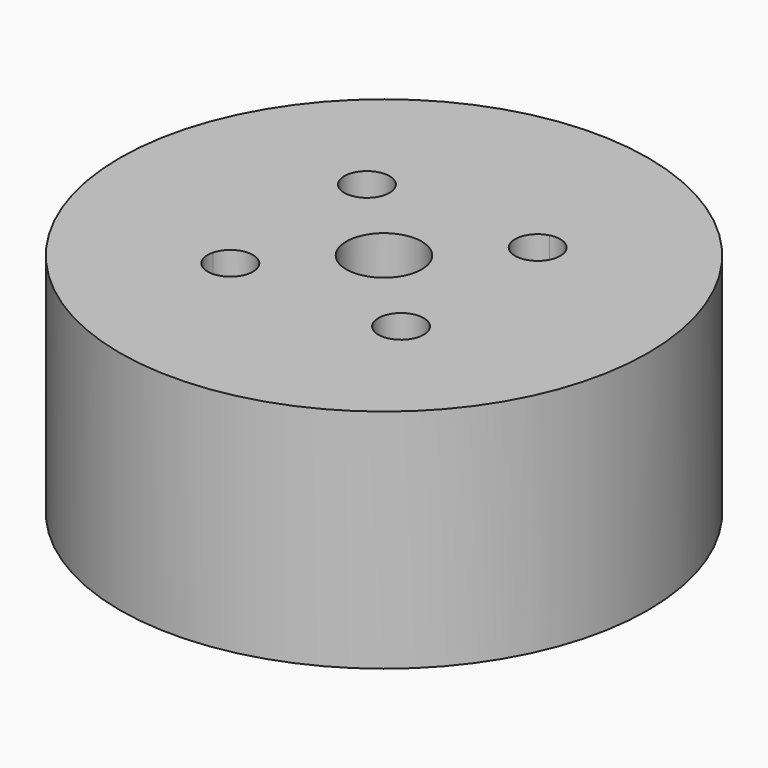
from build123d import *

# Parameters (mm, degrees)
F0_R          = 17.5
F0_R_2        = 1.5
F0_R_3        = 2.5
F1_DEPTH      = 15
F2_START      = 10
F2_DEPTH      = 15
F3_DEPTH      = 5
F3_DEPTH_BACK = 2


with BuildPart() as f1:
    # F0 (on Top) → F1 (new body)
    with BuildSketch(Plane.XY):
        Circle(F0_R)
        with BuildLine():
            ThreePointArc((-7.1057429889, -5.2686256818), (-5.4610649612, -4.1696869574), (-4.1568542495, -5.6568542495))
            ThreePointArc((-4.1568542495, -5.6568542495), (-4.4668242391, -6.569996393), (-5.2686256818, -7.1057429889))
            ThreePointArc((-5.2686256818, -7.1057429889), (-7.7781745931, -7.7781745931), (-7.1057429889, -5.2686256818))
        make_face(mode=Mode.SUBTRACT)
        with Locations((5.6568542495, -5.6568542495)):
            Circle(F0_R_2, mode=Mode.SUBTRACT)
        with Locations((-5.6568542495, 5.6568542495)):
            Circle(F0_R_2, mode=Mode.SUBTRACT)
        Circle(F0_R_3, mode=Mode.SUBTRACT)
        with BuildLine():
            ThreePointArc((7.1057429889, 5.2686256818), (4.5961940777, 4.5961940777), (5.2686256818, 7.1057429889))
            ThreePointArc((5.2686256818, 7.1057429889), (6.9133037096, 8.2046817133), (8.2175144213, 6.7175144213))
            ThreePointArc((8.2175144213, 6.7175144213), (7.9075444317, 5.8043722778), (7.1057429889, 5.2686256818))
        make_face(mode=Mode.SUBTRACT)
        with Locations((-5.6568542495, 5.6568542495)):
            Circle(F0_R_2)
        with BuildLine():
            ThreePointArc((-5.2686256818, -7.1057429889), (-6.7175144213, -6.7175144213), (-7.1057429889, -5.2686256818))
            ThreePointArc((-7.1057429889, -5.2686256818), (-7.7781745931, -7.7781745931), (-5.2686256818, -7.1057429889))
        make_face()
        with BuildLine():
            ThreePointArc((-5.2175144213, -6.7175144213), (-5.8043722778, -5.5274844108), (-7.1057429889, -5.2686256818))
            ThreePointArc((-7.1057429889, -5.2686256818), (-6.7175144213, -6.7175144213), (-5.2686256818, -7.1057429889))
            ThreePointArc((-5.2686256818, -7.1057429889), (-5.2303471292, -6.9133037096), (-5.2175144213, -6.7175144213))
        make_face()
        with BuildLine():
            ThreePointArc((-5.2686256818, -7.1057429889), (-4.4668242391, -6.569996393), (-4.1568542495, -5.6568542495))
            ThreePointArc((-4.1568542495, -5.6568542495), (-5.4610649612, -4.1696869574), (-7.1057429889, -5.2686256818))
            ThreePointArc((-7.1057429889, -5.2686256818), (-5.8043722778, -5.5274844108), (-5.2175144213, -6.7175144213))
            ThreePointArc((-5.2175144213, -6.7175144213), (-5.2303471292, -6.9133037096), (-5.2686256818, -7.1057429889))
        make_face()
        with Locations((5.6568542495, -5.6568542495)):
            Circle(F0_R_2)
        with BuildLine():
            ThreePointArc((7.1057429889, 5.2686256818), (5.6568542495, 5.6568542495), (5.2686256818, 7.1057429889))
            ThreePointArc((5.2686256818, 7.1057429889), (4.5961940777, 4.5961940777), (7.1057429889, 5.2686256818))
        make_face()
        with BuildLine():
            ThreePointArc((7.1057429889, 5.2686256818), (7.1440215416, 5.4610649612), (7.1568542495, 5.6568542495))
            ThreePointArc((7.1568542495, 5.6568542495), (6.569996393, 6.8468842599), (5.2686256818, 7.1057429889))
            ThreePointArc((5.2686256818, 7.1057429889), (5.6568542495, 5.6568542495), (7.1057429889, 5.2686256818))
        make_face()
        with BuildLine():
            ThreePointArc((5.2686256818, 7.1057429889), (6.569996393, 6.8468842599), (7.1568542495, 5.6568542495))
            ThreePointArc((7.1568542495, 5.6568542495), (7.1440215416, 5.4610649612), (7.1057429889, 5.2686256818))
            ThreePointArc((7.1057429889, 5.2686256818), (7.9075444317, 5.8043722778), (8.2175144213, 6.7175144213))
            ThreePointArc((8.2175144213, 6.7175144213), (6.9133037096, 8.2046817133), (5.2686256818, 7.1057429889))
        make_face()
    extrude(amount=F1_DEPTH)

    # F0 (on Top) → F2 (cut)
    with BuildSketch(Plane.XY.offset(F2_START)):
        with Locations((-5.6568542495, 5.6568542495)):
            Circle(F0_R_2)
        with BuildLine():
            ThreePointArc((7.1057429889, 5.2686256818), (5.6568542495, 5.6568542495), (5.2686256818, 7.1057429889))
            ThreePointArc((5.2686256818, 7.1057429889), (4.5961940777, 4.5961940777), (7.1057429889, 5.2686256818))
        make_face()
        with BuildLine():
            ThreePointArc((7.1057429889, 5.2686256818), (7.1440215416, 5.4610649612), (7.1568542495, 5.6568542495))
            ThreePointArc((7.1568542495, 5.6568542495), (6.569996393, 6.8468842599), (5.2686256818, 7.1057429889))
            ThreePointArc((5.2686256818, 7.1057429889), (5.6568542495, 5.6568542495), (7.1057429889, 5.2686256818))
        make_face()
        with Locations((5.6568542495, -5.6568542495)):
            Circle(F0_R_2)
        with BuildLine():
            ThreePointArc((-5.2686256818, -7.1057429889), (-4.4668242391, -6.569996393), (-4.1568542495, -5.6568542495))
            ThreePointArc((-4.1568542495, -5.6568542495), (-5.4610649612, -4.1696869574), (-7.1057429889, -5.2686256818))
            ThreePointArc((-7.1057429889, -5.2686256818), (-5.8043722778, -5.5274844108), (-5.2175144213, -6.7175144213))
            ThreePointArc((-5.2175144213, -6.7175144213), (-5.2303471292, -6.9133037096), (-5.2686256818, -7.1057429889))
        make_face()
        with BuildLine():
            ThreePointArc((-5.2175144213, -6.7175144213), (-5.8043722778, -5.5274844108), (-7.1057429889, -5.2686256818))
            ThreePointArc((-7.1057429889, -5.2686256818), (-6.7175144213, -6.7175144213), (-5.2686256818, -7.1057429889))
            ThreePointArc((-5.2686256818, -7.1057429889), (-5.2303471292, -6.9133037096), (-5.2175144213, -6.7175144213))
        make_face()
    extrude(amount=F2_DEPTH, mode=Mode.SUBTRACT)

    # F0 (on Top) → F3 (cut, two sides)
    with BuildSketch(Plane.XY) as f3_sk:
        with Locations((-5.6568542495, 5.6568542495)):
            Circle(F0_R_2)
        with Locations((5.6568542495, -5.6568542495)):
            Circle(F0_R_2)
        with BuildLine():
            ThreePointArc((-5.2686256818, -7.1057429889), (-6.7175144213, -6.7175144213), (-7.1057429889, -5.2686256818))
            ThreePointArc((-7.1057429889, -5.2686256818), (-7.7781745931, -7.7781745931), (-5.2686256818, -7.1057429889))
        make_face()
        with BuildLine():
            ThreePointArc((-5.2175144213, -6.7175144213), (-5.8043722778, -5.5274844108), (-7.1057429889, -5.2686256818))
            ThreePointArc((-7.1057429889, -5.2686256818), (-6.7175144213, -6.7175144213), (-5.2686256818, -7.1057429889))
            ThreePointArc((-5.2686256818, -7.1057429889), (-5.2303471292, -6.9133037096), (-5.2175144213, -6.7175144213))
        make_face()
        with BuildLine():
            ThreePointArc((5.2686256818, 7.1057429889), (6.569996393, 6.8468842599), (7.1568542495, 5.6568542495))
            ThreePointArc((7.1568542495, 5.6568542495), (7.1440215416, 5.4610649612), (7.1057429889, 5.2686256818))
            ThreePointArc((7.1057429889, 5.2686256818), (7.9075444317, 5.8043722778), (8.2175144213, 6.7175144213))
            ThreePointArc((8.2175144213, 6.7175144213), (6.9133037096, 8.2046817133), (5.2686256818, 7.1057429889))
        make_face()
        with BuildLine():
            ThreePointArc((7.1057429889, 5.2686256818), (7.1440215416, 5.4610649612), (7.1568542495, 5.6568542495))
            ThreePointArc((7.1568542495, 5.6568542495), (6.569996393, 6.8468842599), (5.2686256818, 7.1057429889))
            ThreePointArc((5.2686256818, 7.1057429889), (5.6568542495, 5.6568542495), (7.1057429889, 5.2686256818))
        make_face()
    extrude(amount=F3_DEPTH, mode=Mode.SUBTRACT)
    extrude(f3_sk.sketch, amount=-F3_DEPTH_BACK, mode=Mode.SUBTRACT)


solid = f1.part
